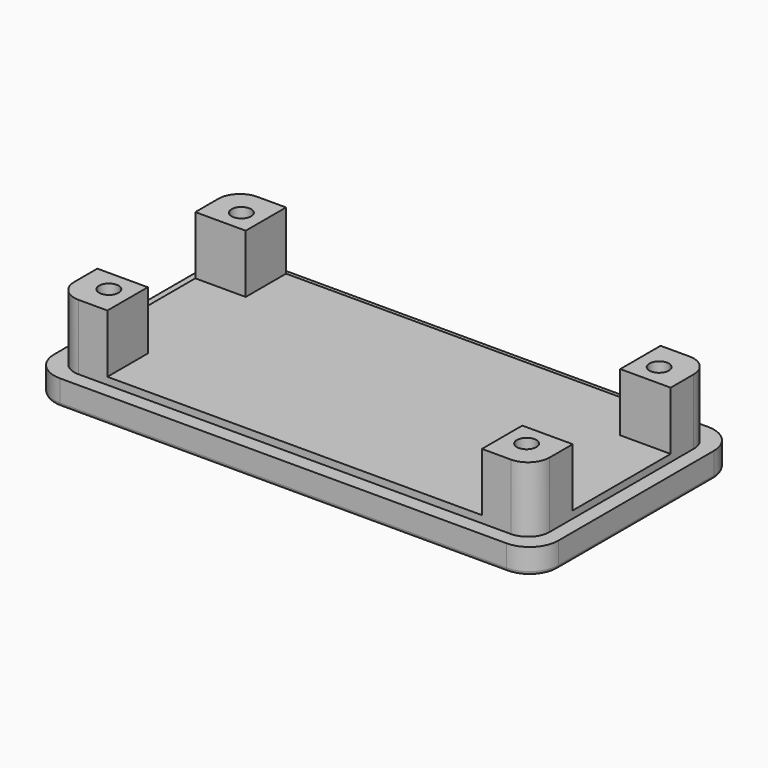
from build123d import *

# Parameters (mm, degrees)
F1_DEPTH = 3.5
F3_DEPTH = 1
F5_DEPTH = 8.1
F6_R     = 1.35
F7_DEPTH = 3
F8_DEPTH = 12.601
F9_R     = 0.5


with BuildPart() as f1:
    # F0 (on Top) → F1 (new body)
    with BuildSketch(Plane.XY):
        with BuildLine():
            Line((31, 17.5), (-31, 17.5))
            ThreePointArc((-31, 17.5), (-33.8284271247, 16.3284271247), (-35, 13.5))
            Line((-35, 13.5), (-35, -13.5))
            ThreePointArc((-35, -13.5), (-33.8284271247, -16.3284271247), (-31, -17.5))
            Line((-31, -17.5), (31, -17.5))
            ThreePointArc((31, -17.5), (33.8284271247, -16.3284271247), (35, -13.5))
            Line((35, -13.5), (35, 13.5))
            ThreePointArc((35, 13.5), (33.8284271247, 16.3284271247), (31, 17.5))
        make_face()
    extrude(amount=F1_DEPTH)

    # F2 (on face) → F3 (join)
    with BuildSketch(Plane.XY.offset(3.5)):
        with BuildLine():
            Line((29.9999990687, 15.5), (-30.0000009313, 15.5))
            ThreePointArc((-30.0000009313, 15.5), (-32.1213212749, 14.6213203436), (-33.0000009313, 12.5))
            Line((-33.0000009313, 12.5), (-33.0000009313, -12.5))
            ThreePointArc((-33.0000009313, -12.5), (-32.1213212749, -14.6213203436), (-30.0000009313, -15.5))
            Line((-30.0000009313, -15.5), (29.9999990687, -15.5))
            ThreePointArc((29.9999990687, -15.5), (32.1213194122, -14.6213203436), (32.9999990687, -12.5))
            Line((32.9999990687, -12.5), (32.9999990687, 12.5))
            ThreePointArc((32.9999990687, 12.5), (32.1213194122, 14.6213203436), (29.9999990687, 15.5))
        make_face()
    extrude(amount=F3_DEPTH)

    # F4 (on face) → F5 (join)
    with BuildSketch(Plane.XY.offset(4.5)):
        with BuildLine():
            Line((-26, 15.5), (-30.0000009313, 15.5))
            ThreePointArc((-30.0000009313, 15.5), (-32.1213212749, 14.6213203436), (-33.0000009313, 12.5))
            Line((-33.0000009313, 12.5), (-33.0000009313, 8.5))
            Line((-33.0000009313, 8.5), (-26, 8.5))
            Line((-26, 8.5), (-26, 15.5))
        make_face()
        with BuildLine():
            Line((-26, -8.5), (-33.0000009313, -8.5))
            Line((-33.0000009313, -8.5), (-33.0000009313, -12.5))
            ThreePointArc((-33.0000009313, -12.5), (-32.1213212749, -14.6213203436), (-30.0000009313, -15.5))
            Line((-30.0000009313, -15.5), (-26, -15.5))
            Line((-26, -15.5), (-26, -8.5))
        make_face()
        with BuildLine():
            Line((29.9999990687, 15.5), (26, 15.5))
            Line((26, 15.5), (26, 8.5))
            Line((26, 8.5), (32.9999990687, 8.5))
            Line((32.9999990687, 8.5), (32.9999990687, 12.5))
            ThreePointArc((32.9999990687, 12.5), (32.1213194122, 14.6213203436), (29.9999990687, 15.5))
        make_face()
        with BuildLine():
            Line((32.9999990687, -12.5), (32.9999990687, -8.5))
            Line((32.9999990687, -8.5), (26, -8.5))
            Line((26, -8.5), (26, -15.5))
            Line((26, -15.5), (29.9999990687, -15.5))
            ThreePointArc((29.9999990687, -15.5), (32.1213194122, -14.6213203436), (32.9999990687, -12.5))
        make_face()
    extrude(amount=F5_DEPTH)

    # F6 (on face) → F7 (cut)
    with BuildSketch(Plane(origin=(0, 0, 0), x_dir=(1, 0, 0), z_dir=(0, 0, -1))):
        Polygon((-30.5011106999, 8.9), (-27.4988893001, 8.9), (-25.9977786002, 11.5), (-27.4988893001, 14.1), (-30.5011106999, 14.1), (-32.0022213998, 11.5), align=None)
        with Locations((-29, 11.5)):
            Circle(F6_R, mode=Mode.SUBTRACT)
        Polygon((27.4988893001, 8.9), (30.5011106999, 8.9), (32.0022213998, 11.5), (30.5011106999, 14.1), (27.4988893001, 14.1), (25.9977786002, 11.5), align=None)
        with Locations((29, 11.5)):
            Circle(F6_R, mode=Mode.SUBTRACT)
        Polygon((30.5011106999, -8.9), (27.4988893001, -8.9), (25.9977786002, -11.5), (27.4988893001, -14.1), (30.5011106999, -14.1), (32.0022213998, -11.5), align=None)
        with Locations((29, -11.5)):
            Circle(F6_R, mode=Mode.SUBTRACT)
        Polygon((-27.4988893001, -8.9), (-30.5011106999, -8.9), (-32.0022213998, -11.5), (-30.5011106999, -14.1), (-27.4988893001, -14.1), (-25.9977786002, -11.5), align=None)
        with Locations((-29, -11.5)):
            Circle(F6_R, mode=Mode.SUBTRACT)
    extrude(amount=-F7_DEPTH, mode=Mode.SUBTRACT)

    # F8 (cut, through all): faces of the model
    f8_faces = [f1.faces().sort_by_distance(p)[0] for p in [
        (-29, -11.5, 0),
        (29, -11.5, 0),
        (29, 11.5, 0),
        (-29, 11.5, 0),
    ]]
    extrude(f8_faces, amount=-F8_DEPTH, mode=Mode.SUBTRACT)

    # F9
    f9_edges = [f1.edges().sort_by_distance(p)[0] for p in [
        (0, 17.5, 0),
        (33.828427, 16.328427, 0),
        (-33.828427, 16.328427, 0),
        (35, 0, 0),
        (-35, 0, 0),
        (33.828427, -16.328427, 0),
        (-33.828427, -16.328427, 0),
        (0, -17.5, 0),
        (-31.251666, -12.8, 0),
        (-29, -14.1, 0),
        (-26.748334, -12.8, 0),
        (-26.748334, -10.2, 0),
        (-29, -8.9, 0),
        (-31.251666, -10.2, 0),
        (26.748334, -10.2, 0),
        (26.748334, -12.8, 0),
        (29, -14.1, 0),
        (31.251666, -12.8, 0),
        (31.251666, -10.2, 0),
        (29, -8.9, 0),
        (-26.748334, 10.2, 0),
        (-26.748334, 12.8, 0),
        (-29, 14.1, 0),
        (-31.251666, 12.8, 0),
        (-31.251666, 10.2, 0),
        (-29, 8.9, 0),
        (31.251666, 10.2, 0),
        (31.251666, 12.8, 0),
        (29, 14.1, 0),
        (26.748334, 12.8, 0),
        (26.748334, 10.2, 0),
        (29, 8.9, 0),
    ]]
    fillet(f9_edges, radius=F9_R)


solid = f1.part
